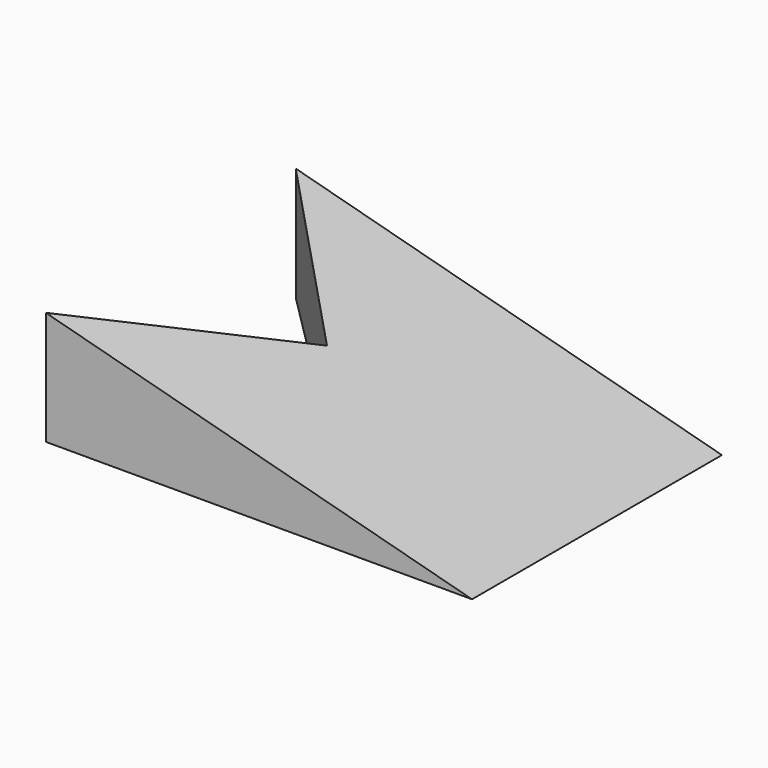
from build123d import *

# Parameters (mm, degrees)
F1_DEPTH = 55
F3_DEPTH = 20


with BuildPart() as f1:
    # F0 (on Front) → F1 (new body)
    with BuildSketch(Plane.XZ):
        Polygon((-22.45298, 20), (-22.45298, 0), (52.54702, 0), align=None)
    extrude(amount=F1_DEPTH)

    # F2 (on Top) → F3 (cut)
    with BuildSketch(Plane.XY):
        Polygon((-22.493402, 0), (-22.493402, -55), (5.006598, -27.5), align=None)
    extrude(amount=F3_DEPTH, mode=Mode.SUBTRACT)


solid = f1.part
